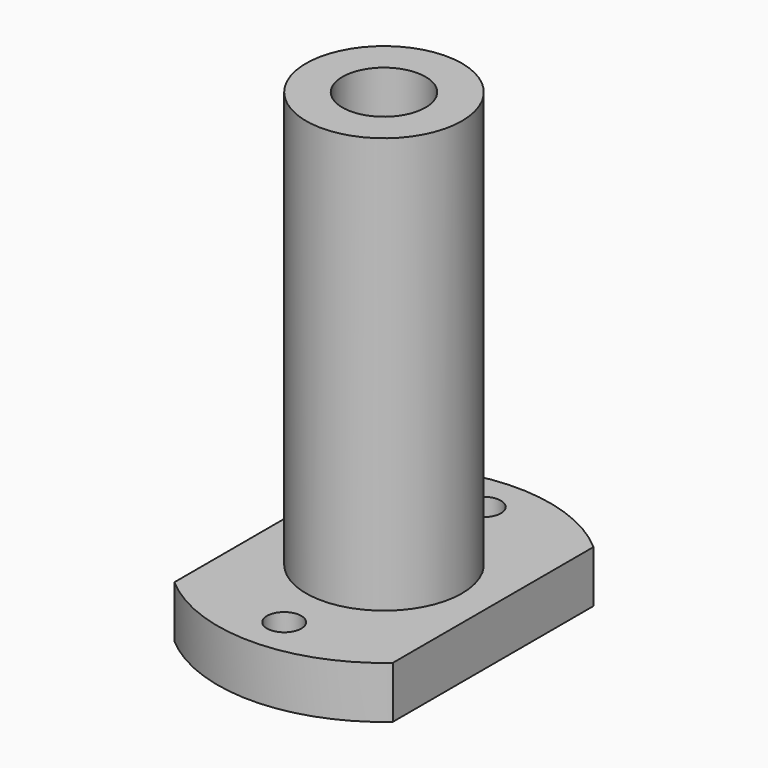
from build123d import *

# Parameters (mm, degrees)
F0_R           = 4
F1_DEPTH       = 5
F2_D           = 3.3
F2_DEPTH       = 10
F2_CSINK_D     = 6.72
F2_CSINK_ANGLE = 90
F2_TIP         = 0.9914200214
F3_R           = 7.5
F3_R_2         = 4
F4_DEPTH       = 40


with BuildPart() as f1:
    # F0 (on Top) → F1 (new body)
    with BuildSketch(Plane.XY):
        with BuildLine():
            ThreePointArc((10.5, 12.0726964676), (0, 16), (-10.5, 12.0726964676))
            Line((-10.5, 12.0726964676), (-10.5, -12.0726964676))
            ThreePointArc((-10.5, -12.0726964676), (0, -16), (10.5, -12.0726964676))
            Line((10.5, -12.0726964676), (10.5, 12.0726964676))
        make_face()
        Circle(F0_R, mode=Mode.SUBTRACT)
    extrude(amount=F1_DEPTH)

    # F2
    with Locations(Plane(origin=(0, 0, 0), x_dir=(1, 0, 0), z_dir=(0, 0, -1))):
        with Locations((0, -12), (0, 12)):
            CounterSinkHole(F2_D / 2, F2_CSINK_D / 2, depth=F2_DEPTH, counter_sink_angle=F2_CSINK_ANGLE)
            with Locations((0, 0, -(F2_DEPTH + F2_TIP / 2))):  # 118° drill point
                Cone(0, F2_D / 2, F2_TIP, mode=Mode.SUBTRACT)

    # F3 (on face) → F4 (join)
    with BuildSketch(Plane.XY.offset(5)):
        Circle(F3_R)
        Circle(F3_R_2, mode=Mode.SUBTRACT)
    extrude(amount=F4_DEPTH)


solid = f1.part
